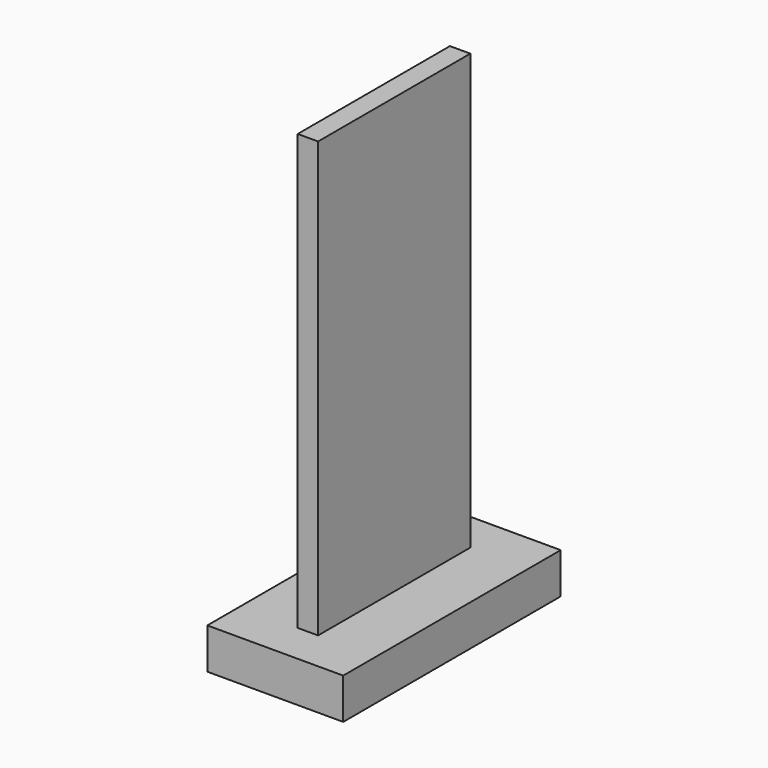
from build123d import *

# Parameters (mm, degrees)
F0_W     = 177.8
F0_H     = 406.4
F0_W_2   = 76.2
F0_H_2   = 304.8
F1_DEPTH = 9.525
F2_DEPTH = 63.5


with BuildPart() as f1:
    # F0 (on Right) → F1 (new body, symmetric)
    with BuildSketch(Plane.YZ):
        with Locations((0, 241.3)):
            Rectangle(F0_W, F0_H)
        with Locations((0, 241.3)):
            Rectangle(F0_W_2, F0_H_2, mode=Mode.SUBTRACT)
        with Locations((0, 241.3)):
            Rectangle(F0_W_2, F0_H_2)
    extrude(amount=F1_DEPTH, both=True)


with BuildPart() as f2:
    # F0 (on Right) → F2 (new body, symmetric)
    with BuildSketch(Plane.YZ):
        Polygon((127, 38.1), (88.9, 38.1), (-88.9, 38.1), (-127, 38.1), (-127, 0), (127, 0), align=None)
    extrude(amount=F2_DEPTH, both=True)


solid = Compound([f1.part, f2.part])
